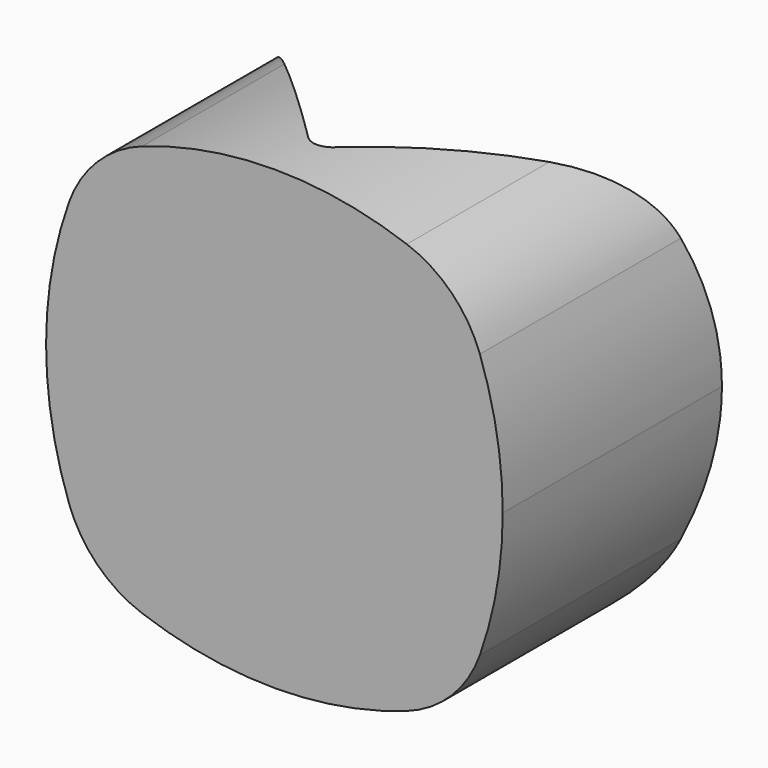
from build123d import *

# Parameters (mm, degrees)
F1_DEPTH      = 50
F1_DEPTH_BACK = 5
F3_DEPTH      = 25.001
F3_DEPTH_BACK = 25.001
F4_R          = 2


with BuildPart() as f1:
    # F0 (on Front) → F1 (new body, two sides)
    with BuildSketch(Plane.XZ) as f1_sk:
        with BuildLine():
            ThreePointArc((14.5, 22.5), (7.3569694848, 24.3704230117), (0, 25))
            ThreePointArc((0, 25), (-7.3569694848, 24.3704230117), (-14.5, 22.5))
            ThreePointArc((-14.5, 22.5), (-19.4027296199, 19.4027296199), (-22.5, 14.5))
            ThreePointArc((-22.5, 14.5), (-24.3704230117, 7.3569694848), (-25, 0))
            ThreePointArc((-25, 0), (-24.3704230117, -7.3569694848), (-22.5, -14.5))
            ThreePointArc((-22.5, -14.5), (-19.4027296199, -19.4027296199), (-14.5, -22.5))
            ThreePointArc((-14.5, -22.5), (-7.3569694848, -24.3704230117), (0, -25))
            ThreePointArc((0, -25), (7.3569694848, -24.3704230117), (14.5, -22.5))
            ThreePointArc((14.5, -22.5), (19.4027296199, -19.4027296199), (22.5, -14.5))
            ThreePointArc((22.5, -14.5), (24.3704230117, -7.3569694848), (25, 0))
            ThreePointArc((25, 0), (24.3704230117, 7.3569694848), (22.5, 14.5))
            ThreePointArc((22.5, 14.5), (19.4027296199, 19.4027296199), (14.5, 22.5))
        make_face()
    extrude(amount=-F1_DEPTH)
    extrude(f1_sk.sketch, amount=F1_DEPTH_BACK)

    # F2 (on Top) → F3 (cut, two sides)
    with BuildSketch(Plane.XY) as f3_sk:
        Polygon((-25, 25), (0, 0), (25, 25), (25, 50), (0, 50), (-25, 50), align=None)
    extrude(amount=-F3_DEPTH, mode=Mode.SUBTRACT)
    extrude(f3_sk.sketch, amount=F3_DEPTH_BACK, mode=Mode.SUBTRACT)

    # F4
    f4_edges = [f1.edges().sort_by_distance(p)[0] for p in [
        (0, 0, 0),
    ]]
    fillet(f4_edges, radius=F4_R)


solid = f1.part
